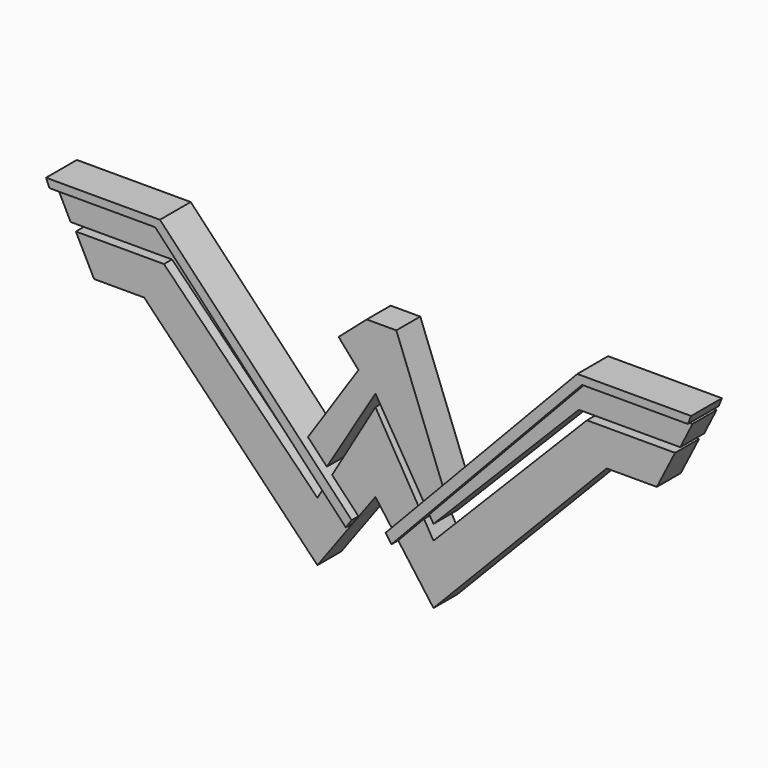
from build123d import *

# Parameters (mm, degrees)
F2_DEPTH = 9
F3_DEPTH = 7


with BuildPart() as f2:
    # F1 (on Front) → F2 (new body)
    with BuildSketch(Plane.XZ):
        Polygon((-75.443379581, 10.1466504857), (-74.6737569571, 8.2548242062), (-49.936760217, 8.2548242062), (-5.3362287581, -39.0802323818), (-3.9785234258, -37.1320582926), (-48.8134101033, 10.1466504857), align=None)
    extrude(amount=F2_DEPTH)



with BuildPart() as f2b:
    # F1 (on Front) → F2, piece 2 (new body)
    with BuildSketch(Plane.XZ):
        Polygon((75.443379581, 10.1466504857), (48.8134101033, 10.1466504857), (3.9785234258, -37.1320582926), (5.3362287581, -39.0802323818), (49.936760217, 8.2548242062), (74.6737569571, 8.2548242062), align=None)
    extrude(amount=F2_DEPTH)


with BuildPart() as f2_1:
    add(f2.part)

    add(f2b.part)  # F3 merges F2b
    # F0 (on Front) → F3 (join)
    with BuildSketch(Plane.XZ):
        Polygon((-74.166752398, 7.2823497467), (-71.30458951, 1.5580287436), (-47.5895479321, 1.5580287436), (-13.5767729953, -33.0098701724), (0, -10.5720795691), (13.5767729953, -33.0098701724), (47.5895479321, 1.5580287436), (71.30458951, 1.5580287436), (74.166752398, 7.2823497467), (46.3629066944, 7.2823497467), (15.8331952989, -24.7465875), (4.8833945766, 4.0167045015), (-2.0373270524, 4.0167045015), (-8.6096497253, -1.7130117631), (-3.9756768383, -7.0284521207), (-15.8331952989, -24.7465875), (-46.3629066944, 7.2823497467), align=None)
        Polygon((13.5767729953, -36.478985101), (0, -13.3794201538), (-13.5767729953, -36.478985101), (-49.4699440897, 0), (-70.081859827, 0), (-65.8173263073, -8.4041291848), (-54.0898554027, -8.4041291848), (-13.5767729953, -50.3387264907), (-6.7883864976, -41.0989001393), (-4.3703924554, -37.8077137762), (0, -31.8590737879), (13.5767729953, -50.3387264907), (54.0898554027, -8.4041291848), (65.8173263073, -8.4041291848), (70.081859827, 0), (49.4699440897, 0), align=None)
    extrude(amount=F3_DEPTH)


solid = f2_1.part
